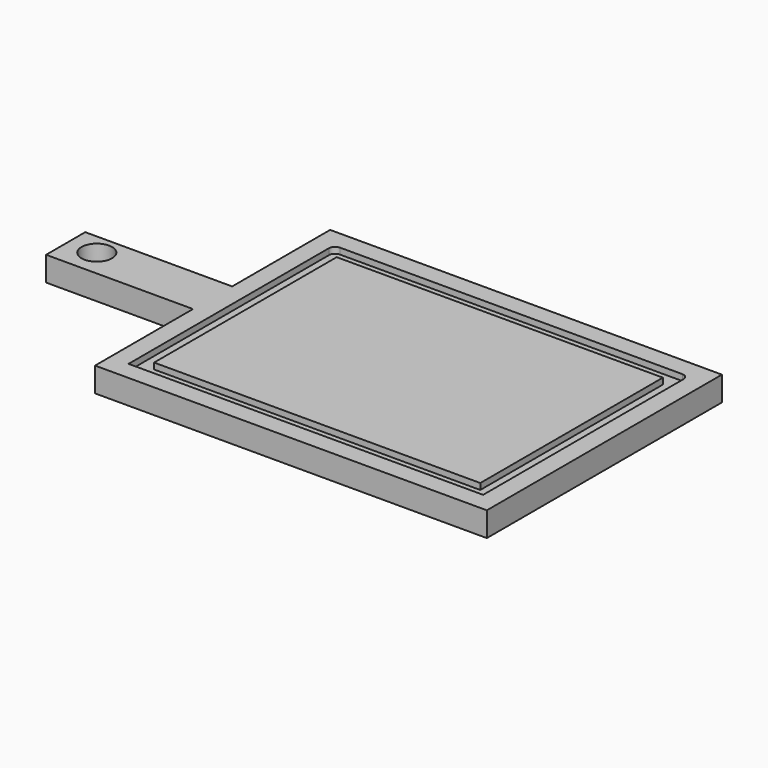
from build123d import *

# Parameters (mm, degrees)
F0_W     = 152.4
F0_H     = 50.8
F1_DEPTH = 25.4
F2_R     = 15.875
F3_DEPTH = 25.4
F5_DEPTH = 6.35
F6_R     = 6.35


with BuildPart() as f1:
    # F0 (on Top) → F1 (new body)
    with BuildSketch(Plane.XY):
        Polygon((0, 127), (0, 0), (406.4, 0), (406.4, 304.8), (0, 304.8), (0, 177.8), align=None)
        with Locations((-76.2, 152.4)):
            Rectangle(F0_W, F0_H)
    extrude(amount=F1_DEPTH)

    # F2 (on face) → F3 (cut)
    with BuildSketch(Plane.XY.offset(25.4)):
        with Locations((-122.649528, 155.575)):
            Circle(F2_R)
    extrude(amount=-F3_DEPTH, mode=Mode.SUBTRACT)

    # F4 (on face) → F5 (cut)
    with BuildSketch(Plane.XY.offset(25.4)):
        Polygon((19.304004, 127), (19.304004, 19.304004), (387.095996, 19.304004), (387.095996, 285.495996), (19.304004, 285.495996), (19.304004, 177.8), align=None)
        Polygon((34.036007, 127), (34.036007, 177.8), (34.036007, 270.763993), (372.363993, 270.763993), (372.363993, 34.036007), (34.036007, 34.036007), align=None, mode=Mode.SUBTRACT)
    extrude(amount=-F5_DEPTH, mode=Mode.SUBTRACT)

    # F6
    f6_edges = [f1.edges().sort_by_distance(p)[0] for p in [
        (19.304004, 285.495996, 22.225),
        (387.095996, 285.495996, 22.225),
    ]]
    fillet(f6_edges, radius=F6_R)


solid = f1.part
